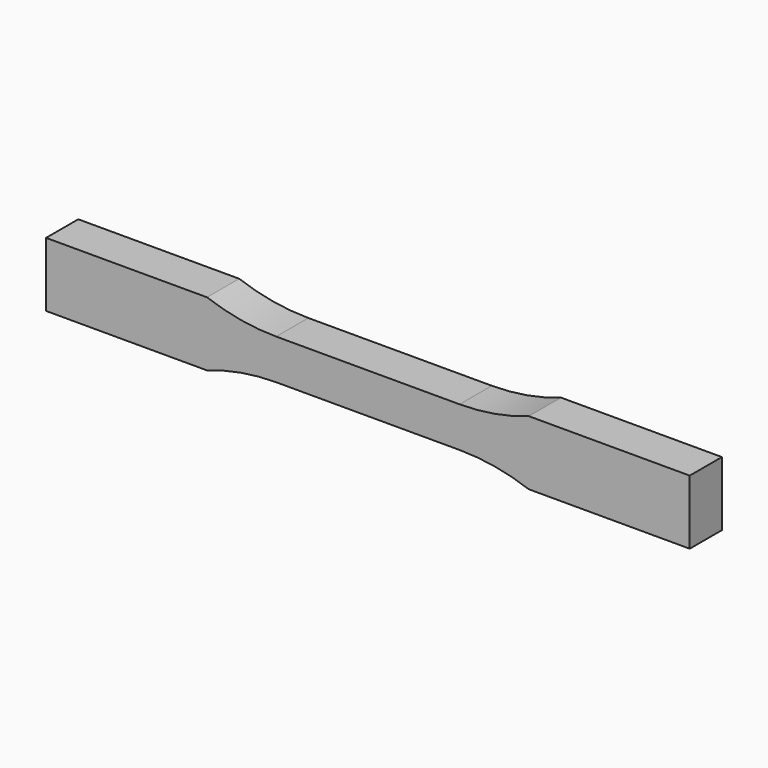
from build123d import *

# Parameters (mm, degrees)
F1_DEPTH = 12.5


with BuildPart() as f1:
    # F0 (on Front) → F1 (new body)
    with BuildSketch(Plane.XZ):
        with BuildLine():
            Line((28.5, 6.25), (0, 6.25))
            Line((0, 6.25), (-28.5, 6.25))
            ThreePointArc((-28.5, 6.25), (-39.412292, 7.194524), (-50, 10))
            Line((-50, 10), (-100, 10))
            Line((-100, 10), (-100, 0))
            Line((-100, 0), (-100, -10))
            Line((-100, -10), (-50, -10))
            ThreePointArc((-50, -10), (-39.412292, -7.194524), (-28.5, -6.25))
            Line((-28.5, -6.25), (0, -6.25))
            Line((0, -6.25), (28.5, -6.25))
            ThreePointArc((28.5, -6.25), (39.412292, -7.194524), (50, -10))
            Line((50, -10), (100, -10))
            Line((100, -10), (100, 0))
            Line((100, 0), (100, 10))
            Line((100, 10), (50, 10))
            ThreePointArc((50, 10), (39.412292, 7.194524), (28.5, 6.25))
        make_face()
    extrude(amount=F1_DEPTH)


solid = f1.part
